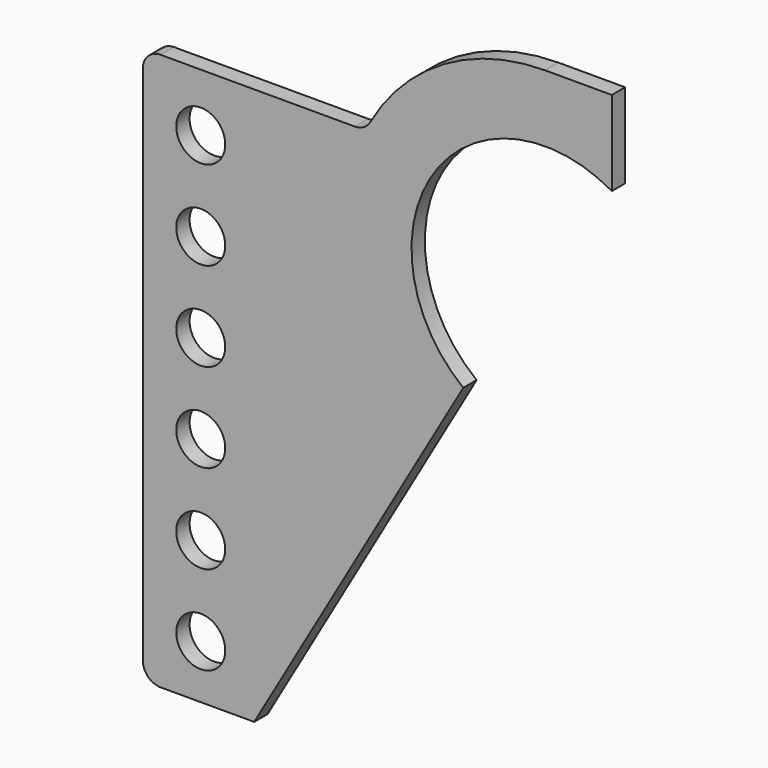
from build123d import *

# Parameters (mm, degrees)
F0_R     = 6.985
F1_DEPTH = 4.7625
F2_R     = 5.08


with BuildPart() as f1:
    # F0 (on Front) → F1 (new body)
    with BuildSketch(Plane.XZ):
        with BuildLine():
            Line((19.00762, 57.15), (0, 57.15))
            ThreePointArc((0, 57.15), (-30.120695, 48.568161), (-51.195337, 25.4))
            Line((-51.195337, 25.4), (-114.695337, 25.4))
            Line((-114.695337, 25.4), (-114.695337, -133.35))
            Line((-114.695337, -133.35), (-82.945337, -133.35))
            Line((-82.945337, -133.35), (-23.341394, -30.112943))
            ThreePointArc((-23.341394, -30.112943), (-31.640757, 21.224337), (19.00762, 33.02))
            Line((19.00762, 33.02), (19.00762, 57.15))
        make_face()
        with Locations((-98.185337, -118.11)):
            Circle(F0_R, mode=Mode.SUBTRACT)
        with Locations((-98.185337, -92.71)):
            Circle(F0_R, mode=Mode.SUBTRACT)
        with Locations((-98.185337, -67.31)):
            Circle(F0_R, mode=Mode.SUBTRACT)
        with Locations((-98.185337, -41.91)):
            Circle(F0_R, mode=Mode.SUBTRACT)
        with Locations((-98.185337, -16.51)):
            Circle(F0_R, mode=Mode.SUBTRACT)
        with Locations((-98.185337, 8.89)):
            Circle(F0_R, mode=Mode.SUBTRACT)
    extrude(amount=F1_DEPTH)

    # F2
    f2_edges = [f1.edges().sort_by_distance(p)[0] for p in [
        (-51.195337, -2.38125, 25.4),
        (-114.695337, -2.38125, -133.35),
        (-114.695337, -2.38125, 25.4),
    ]]
    fillet(f2_edges, radius=F2_R)


solid = f1.part
